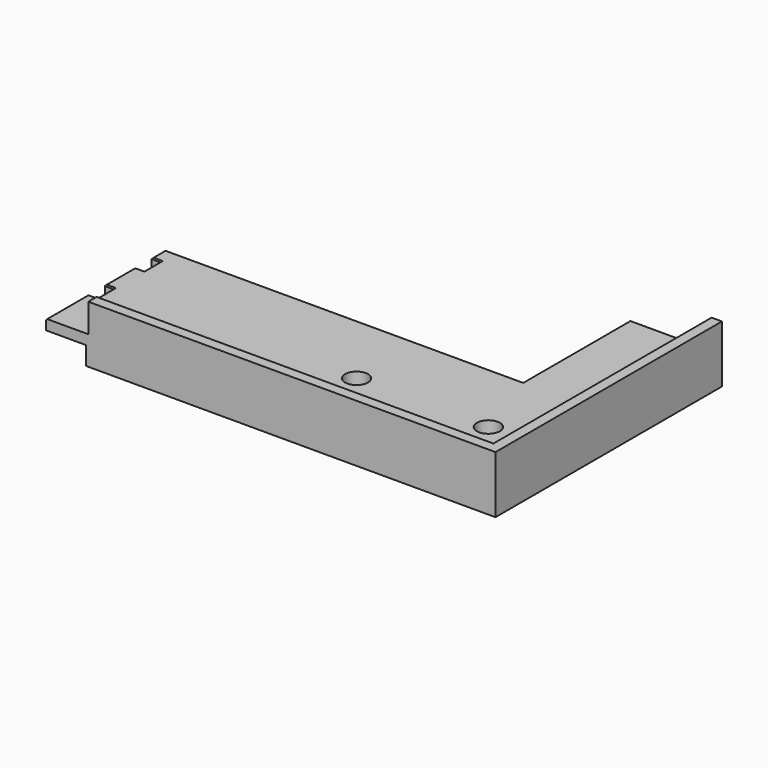
from build123d import *

# Parameters (mm, degrees)
F1_DEPTH  = 25
F2_W      = 8
F2_H      = 18
F3_DEPTH  = 25.001
F4_W      = 35
F4_H      = 16
F5_DEPTH  = 246.8787132738
F7_DEPTH  = 25
F8_SIZE   = 1
F9_SIZE   = 1
F10_SIZE  = 1
F11_SIZE  = 1
F12_SIZE  = 1
F13_R     = 10
F14_DEPTH = 25.001


with BuildPart() as f1:
    # F0 (on Top) → F1 (new body)
    with BuildSketch(Plane.XY):
        Polygon((-392, 0), (0, 0), (0, 246.8777132738), (-80, 246.8777132738), (-80, 130), (-392, 130), align=None)
    extrude(amount=F1_DEPTH)

    # F2 (on face) → F3 (cut, through all)
    with BuildSketch(Plane.XY.offset(25)):
        with Locations((-388, 106)):
            Rectangle(F2_W, F2_H)
        with Locations((-388, 55)):
            Rectangle(F2_W, F2_H)
    extrude(amount=-F3_DEPTH, mode=Mode.SUBTRACT)

    # F4 (on face) → F5 (cut, through all)
    with BuildSketch(Plane.XZ):
        with Locations((-374.5, 8)):
            Rectangle(F4_W, F4_H)
    extrude(amount=-F5_DEPTH, mode=Mode.SUBTRACT)

    # F6 (on face) → F7 (join)
    with BuildSketch(Plane.XY.offset(25)):
        Polygon((-355.1386892796, 10), (-355.1386892796, 0), (0, 0), (0, 246.8777132738), (-10, 246.8777132738), (-10, 10), align=None)
    extrude(amount=F7_DEPTH)

    # F8
    f8_edges = [f1.edges().sort_by_distance(p)[0] for p in [
        (-392, 23, 25),
        (-384, 55, 25),
        (-392, 80.5, 25),
        (-384, 106, 25),
        (-392, 122.5, 25),
        (-388, 64, 25),
        (-388, 46, 25),
        (-388, 115, 25),
        (-388, 97, 25),
    ]]
    chamfer(f8_edges, length=F8_SIZE)

    # F9
    f9_edges = [f1.edges().sort_by_distance(p)[0] for p in [
        (-235.5, 130, 25),
        (-80, 188.438857, 25),
    ]]
    chamfer(f9_edges, length=F9_SIZE)

    # F10
    f10_edges = [f1.edges().sort_by_distance(p)[0] for p in [
        (-182.569345, 10, 50),
        (-10, 128.438857, 50),
    ]]
    chamfer(f10_edges, length=F10_SIZE)

    # F11
    f11_edges = [f1.edges().sort_by_distance(p)[0] for p in [
        (-355.138689, 10, 37),
    ]]
    chamfer(f11_edges, length=F11_SIZE)

    # F12
    f12_edges = [f1.edges().sort_by_distance(p)[0] for p in [
        (-44.5, 246.877713, 25),
        (-10, 246.877713, 37),
    ]]
    chamfer(f12_edges, length=F12_SIZE)

    # F13 (on face) → F14 (cut, through all)
    with BuildSketch(Plane.XY.offset(25)):
        with BuildLine():
            ThreePointArc((-46.8990951777, 63.3794814348), (-56.8990951777, 73.3794814348), (-66.8990951777, 63.3794814348))
            ThreePointArc((-66.8990951777, 63.3794814348), (-56.8990951777, 53.3794814348), (-46.8990951777, 63.3794814348))
        make_face()
        with Locations((-171.8990951777, 63.3794814348)):
            Circle(F13_R)
    extrude(amount=-F14_DEPTH, mode=Mode.SUBTRACT)


solid = f1.part
